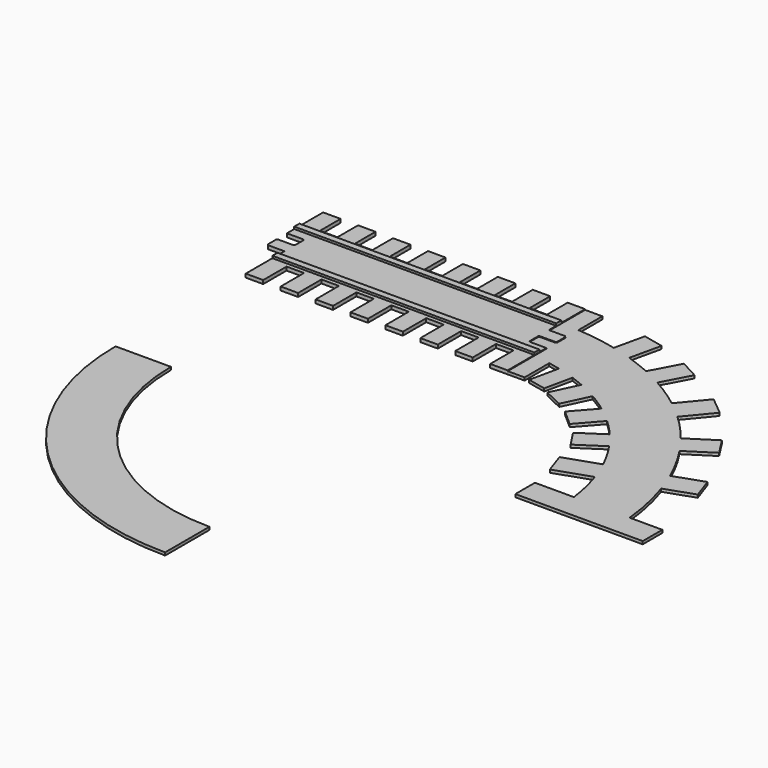
from build123d import *

# Parameters (mm, degrees)
F2_DEPTH = 31.75
F1_W     = 2314.8620128632
F1_H     = 57.1499988437
F1_W_2   = 2314.7030770779
F1_H_2   = 57.15
F3_DEPTH = 50.8
F5_DEPTH = 25.4


with BuildPart() as f2:
    # F0 (on Top) → F2 (new body)
    with BuildSketch(Plane.XY):
        with BuildLine():
            Line((141.605, 0), (0, 0))
            Line((0, 0), (-0.0174862289, 172.1356511116))
            Line((-0.0174862289, 172.1356511116), (-0.0174862289, 400.9649455547))
            Line((-0.0174862289, 400.9649455547), (-154.3224862289, 400.9649455547))
            Line((-154.3224862289, 400.9649455547), (-154.3224862289, 172.1356511116))
            Line((-154.3224862289, 172.1356511116), (-308.6274862289, 172.1356511116))
            Line((-308.6274862289, 172.1356511116), (-308.6274862289, 400.9649455547))
            Line((-308.6274862289, 400.9649455547), (-462.9324862289, 400.9649455547))
            Line((-462.9324862289, 400.9649455547), (-462.9324862289, 172.1356511116))
            Line((-462.9324862289, 172.1356511116), (-617.2374862289, 172.1356511116))
            Line((-617.2374862289, 172.1356511116), (-617.2374862289, 400.9649455547))
            Line((-617.2374862289, 400.9649455547), (-771.5424862289, 400.9649455547))
            Line((-771.5424862289, 400.9649455547), (-771.5424862289, 172.1356511116))
            Line((-771.5424862289, 172.1356511116), (-925.8474862289, 172.1356511116))
            Line((-925.8474862289, 172.1356511116), (-925.8474862289, 400.9649455547))
            Line((-925.8474862289, 400.9649455547), (-1080.1524862289, 400.9649455547))
            Line((-1080.1524862289, 400.9649455547), (-1080.1524862289, 172.1356511116))
            Line((-1080.1524862289, 172.1356511116), (-1234.4574862289, 172.1356511116))
            Line((-1234.4574862289, 172.1356511116), (-1234.4574862289, 400.9649455547))
            Line((-1234.4574862289, 400.9649455547), (-1388.7624862289, 400.9649455547))
            Line((-1388.7624862289, 400.9649455547), (-1388.7624862289, 172.1356511116))
            Line((-1388.7624862289, 172.1356511116), (-1543.0674862289, 172.1356511116))
            Line((-1543.0674862289, 172.1356511116), (-1543.0674862289, 399.8836874962))
            Line((-1543.0674862289, 399.8836874962), (-1697.3724862289, 399.8836874962))
            Line((-1697.3724862289, 399.8836874962), (-1697.3724862289, 172.1356511116))
            Line((-1697.3724862289, 172.1356511116), (-1851.6774862289, 172.1356511116))
            Line((-1851.6774862289, 172.1356511116), (-1851.6774862289, 399.8836874962))
            Line((-1851.6774862289, 399.8836874962), (-2005.9824862289, 399.8836874962))
            Line((-2005.9824862289, 399.8836874962), (-2005.9824862289, 172.1356511116))
            Line((-2005.9824862289, 172.1356511116), (-2160.2874862289, 172.1356511116))
            Line((-2160.2874862289, 172.1356511116), (-2160.2874862289, 399.8836874962))
            Line((-2160.2874862289, 399.8836874962), (-2314.5924862289, 399.8836874962))
            Line((-2314.5924862289, 399.8836874962), (-2314.5924862289, 0))
            Line((-2314.5924862289, 0), (-2172.9874862289, 0))
            ThreePointArc((-2172.9874862289, 0), (-2164.0072301079, -3.7197438789), (-2160.2874862289, -12.7))
            Line((-2160.2874862289, -12.7), (-2160.2874862289, -97.307886156))
            ThreePointArc((-2160.2874862289, -97.307886156), (-2164.0072301079, -106.2881422771), (-2172.9874862289, -110.007886156))
            Line((-2172.9874862289, -110.007886156), (-2301.8924862289, -110.007886156))
            ThreePointArc((-2301.8924862289, -110.007886156), (-2310.87274235, -113.7276300349), (-2314.5924862289, -122.707886156))
            Line((-2314.5924862289, -122.707886156), (-2314.5924862289, -207.315286156))
            ThreePointArc((-2314.5924862289, -207.315286156), (-2310.87274235, -216.2955422771), (-2301.8924862289, -220.015286156))
            Line((-2301.8924862289, -220.015286156), (-2160.2874862289, -220.015286156))
            Line((-2160.2874862289, -220.015286156), (-2160.2874862289, -647.8700637817))
            Line((-2160.2874862289, -647.8700637817), (-2005.9736835098, -647.8700637817))
            Line((-2005.9736835098, -647.8700637817), (-2005.9736835098, -389.8174464703))
            Line((-2005.9736835098, -389.8174464703), (-1851.6686835098, -389.8174464703))
            Line((-1851.6686835098, -389.8174464703), (-1851.6686835098, -647.8700637817))
            Line((-1851.6686835098, -647.8700637817), (-1697.355, -647.8700637817))
            Line((-1697.355, -647.8700637817), (-1697.355, -389.8174464703))
            Line((-1697.355, -389.8174464703), (-1543.05, -389.8174464703))
            Line((-1543.05, -389.8174464703), (-1543.05, -647.8700637817))
            Line((-1543.05, -647.8700637817), (-1388.745, -647.8700637817))
            Line((-1388.745, -647.8700637817), (-1388.745, -389.8174464703))
            Line((-1388.745, -389.8174464703), (-1234.44, -389.8174464703))
            Line((-1234.44, -389.8174464703), (-1234.44, -647.8700637817))
            Line((-1234.44, -647.8700637817), (-1080.135, -647.8700637817))
            Line((-1080.135, -647.8700637817), (-1080.135, -389.8174464703))
            Line((-1080.135, -389.8174464703), (-925.83, -389.8174464703))
            Line((-925.83, -389.8174464703), (-925.83, -647.8700637817))
            Line((-925.83, -647.8700637817), (-771.525, -647.8700637817))
            Line((-771.525, -647.8700637817), (-771.525, -389.8174464703))
            Line((-771.525, -389.8174464703), (-617.22, -389.8174464703))
            Line((-617.22, -389.8174464703), (-617.22, -647.8700637817))
            Line((-617.22, -647.8700637817), (-462.915, -647.8700637817))
            Line((-462.915, -647.8700637817), (-462.915, -389.8174464703))
            Line((-462.915, -389.8174464703), (-308.61, -389.8174464703))
            Line((-308.61, -389.8174464703), (-308.61, -647.8700637817))
            Line((-308.61, -647.8700637817), (-154.305, -647.8700637817))
            Line((-154.305, -647.8700637817), (-154.305, -389.8174464703))
            Line((-154.305, -389.8174464703), (0, -389.8174464703))
            Line((0, -389.8174464703), (0, -647.8700637817))
            Line((0, -647.8700637817), (154.305, -647.8700637817))
            Line((154.305, -647.8700637817), (154.305, -220.015286156))
            Line((154.305, -220.015286156), (12.7, -220.015286156))
            ThreePointArc((12.7, -220.015286156), (3.7197438789, -216.2955422771), (0, -207.315286156))
            Line((0, -207.315286156), (0, -122.707886156))
            ThreePointArc((0, -122.707886156), (3.7197438789, -113.7276300349), (12.7, -110.007886156))
            Line((12.7, -110.007886156), (141.605, -110.007886156))
            ThreePointArc((141.605, -110.007886156), (150.5852561211, -106.2881422771), (154.305, -97.307886156))
            Line((154.305, -97.307886156), (154.305, -12.7))
            ThreePointArc((154.305, -12.7), (150.5852561211, -3.7197438789), (141.605, 0))
        make_face()
    extrude(amount=F2_DEPTH)

    # F1 (on face) → F3 (join)
    with BuildSketch(Plane.XY):
        with Locations((-1157.4310064316, 109.685767442)):
            Rectangle(F1_W, F1_H)
        with Locations((-1003.2348185778, -324.7106937885)):
            Rectangle(F1_W_2, F1_H_2)
    extrude(amount=F3_DEPTH)

    # F4 (on Top) → F5, piece 2 (join)
    with BuildSketch(Plane.XY):
        with BuildLine():
            Line((1700.7607682316, -2048.5756397247), (2190.2823357795, -2048.5756397247))
            ThreePointArc((2190.2823357795, -2048.5756397247), (2187.5977989698, -1940.1663210752), (2179.5507691882, -1832.0227478976))
            ThreePointArc((2179.5507691882, -1832.0227478976), (2141.9886167336, -1591.1682980573), (2077.8949142078, -1355.9794832692))
            ThreePointArc((2077.8949142078, -1355.9794832692), (2044.1455305204, -1261.9335607073), (2006.1421100743, -1169.5247056976))
            ThreePointArc((2006.1421100743, -1169.5247056976), (1922.7656306848, -999.6194729166), (1825.0327772678, -837.5462956023))
            ThreePointArc((1825.0327772678, -837.5462956023), (1771.2311577822, -760.1359259124), (1714.1483645732, -685.1123675174))
            ThreePointArc((1714.1483645732, -685.1123675174), (1608.8949560236, -562.3745325695), (1494.8739516355, -447.7356792199))
            ThreePointArc((1494.8739516355, -447.7356792199), (1418.2964274984, -379.5124431463), (1338.609180119, -314.948755609))
            ThreePointArc((1338.609180119, -314.948755609), (1206.1636246701, -220.3234632047), (1067.0564072904, -135.7956382379))
            ThreePointArc((1067.0564072904, -135.7956382379), (984.4739860367, -92.0103632148), (900.0986208557, -51.7884244308))
            ThreePointArc((900.0986208557, -51.7884244308), (793.5114991459, -7.0869154966), (684.7147031869, 31.9297040961))
            ThreePointArc((684.7147031869, 31.9297040961), (597.0459627706, 58.7622137688), (508.331091083, 81.9022907561))
            ThreePointArc((508.331091083, 81.9022907561), (331.2984768473, 116.5058898409), (152.0188293572, 136.4248147256))
            ThreePointArc((152.0188293572, 136.4248147256), (76.05528047, 140.3858274419), (0, 141.7066960547))
            Line((0, 141.7066960547), (0, 0))
            Line((0, 0), (142.2644512892, 0))
            ThreePointArc((142.2644512892, 0), (151.2447074102, -3.7197438789), (154.9644512892, -12.7))
            Line((154.9644512892, -12.7), (154.9644512892, -96.4580241919))
            ThreePointArc((154.9644512892, -96.4580241919), (151.2447074102, -105.4382803129), (142.2644512892, -109.1580241919))
            Line((142.2644512892, -109.1580241919), (12.7, -109.1580241919))
            ThreePointArc((12.7, -109.1580241919), (3.7197438789, -112.8777680708), (0, -121.8580241919))
            Line((0, -121.8580241919), (0, -207.9156849861))
            ThreePointArc((0, -207.9156849861), (3.7197438789, -216.8959411072), (12.7, -220.6156849861))
            Line((12.7, -220.6156849861), (153.5782366991, -220.6156849861))
            Line((153.5782366991, -220.6156849861), (153.5782366991, -354.7631011101))
            ThreePointArc((153.5782366991, -354.7631011101), (228.837059494, -363.2801786979), (303.642064333, -375.139448075))
            ThreePointArc((303.642064333, -375.139448075), (355.246043117, -385.329584685), (406.5102229371, -397.1106448177))
            ThreePointArc((406.5102229371, -397.1106448177), (486.0256206806, -418.7393636535), (564.4000478194, -444.1942085254))
            ThreePointArc((564.4000478194, -444.1942085254), (622.0497465353, -465.6538780476), (678.8856964144, -489.1842834708))
            ThreePointArc((678.8856964144, -489.1842834708), (763.7797724893, -528.961330141), (846.3530795876, -573.3557729156))
            ThreePointArc((846.3530795876, -573.3557729156), (929.5254887854, -624.2970305847), (1009.6410285995, -679.9222197078))
            ThreePointArc((1009.6410285995, -679.9222197078), (1084.0534570613, -738.0737156556), (1155.1233890557, -800.265923824))
            ThreePointArc((1155.1233890557, -800.265923824), (1226.6235618884, -870.4492338685), (1293.8670565925, -944.7209252717))
            ThreePointArc((1293.8670565925, -944.7209252717), (1349.9219318783, -1014.0235779175), (1402.2690057755, -1086.1678123474))
            ThreePointArc((1402.2690057755, -1086.1678123474), (1475.1870023604, -1202.1652789525), (1538.5312619305, -1323.6558187665))
            ThreePointArc((1538.5312619305, -1323.6558187665), (1578.0045248397, -1414.155502638), (1612.1597420575, -1506.7932508962))
            ThreePointArc((1612.1597420575, -1506.7932508962), (1657.5348851102, -1667.5700027609), (1686.9179102129, -1832.0227478976))
            ThreePointArc((1686.9179102129, -1832.0227478976), (1697.2965256066, -1940.0781977309), (1700.7607682316, -2048.5756397247))
        make_face()
        with BuildLine():
            Line((568.7266337623, 351.0071734775), (508.331091083, 81.9022907561))
            ThreePointArc((508.331091083, 81.9022907561), (597.0459627706, 58.7622137688), (684.7147031869, 31.9297040961))
            Line((684.7147031869, 31.9297040961), (747.3295376382, 310.9231021867))
            Line((747.3295376382, 310.9231021867), (568.7266337623, 351.0071734775))
        make_face()
        with BuildLine():
            Line((0, 400.9472429752), (0, 141.7066960547))
            ThreePointArc((0, 141.7066960547), (76.05528047, 140.3858274419), (152.0188293572, 136.4248147256))
            Line((152.0188293572, 136.4248147256), (152.0188293572, 400.9472429752))
            Line((152.0188293572, 400.9472429752), (0, 400.9472429752))
        make_face()
        with BuildLine():
            Line((1034.840464592, 199.4515806437), (900.0986208557, -51.7884244308))
            ThreePointArc((900.0986208557, -51.7884244308), (984.4739860367, -92.0103632148), (1067.0564072904, -135.7956382379))
            Line((1067.0564072904, -135.7956382379), (1199.4935155064, 111.1469507722))
            Line((1199.4935155064, 111.1469507722), (1034.840464592, 199.4515806437))
        make_face()
        with BuildLine():
            ThreePointArc((303.642064333, -375.139448075), (228.837059494, -363.2801786979), (153.5782366991, -354.7631011101))
            Line((153.5782366991, -354.7631011101), (153.5782366991, -647.3406553268))
            Line((153.5782366991, -647.3406553268), (303.642064333, -647.3406553268))
            Line((303.642064333, -647.3406553268), (303.642064333, -375.139448075))
        make_face()
        with BuildLine():
            ThreePointArc((564.4000478194, -444.1942085254), (486.0256206806, -418.7393636535), (406.5102229371, -397.1106448177))
            Line((406.5102229371, -397.1106448177), (350.8396875228, -655.5128253273))
            Line((350.8396875228, -655.5128253273), (511.4199292036, -690.1084623057))
            Line((511.4199292036, -690.1084623057), (564.4000478194, -444.1942085254))
        make_face()
        with BuildLine():
            ThreePointArc((846.3530795876, -573.3557729156), (763.7797724893, -528.961330141), (678.8856964144, -489.1842834708))
            Line((678.8856964144, -489.1842834708), (566.5445327759, -725.2546548843))
            Line((566.5445327759, -725.2546548843), (735.7490831626, -805.7757129466))
            Line((735.7490831626, -805.7757129466), (846.3530795876, -573.3557729156))
        make_face()
        with BuildLine():
            Line((981.8098078719, -996.6349115516), (1155.1233890557, -800.265923824))
            ThreePointArc((1155.1233890557, -800.265923824), (1084.0534570613, -738.0737156556), (1009.6410285995, -679.9222197078))
            Line((1009.6410285995, -679.9222197078), (840.3251171112, -871.761739254))
            Line((840.3251171112, -871.761739254), (981.8098078719, -996.6349115516))
        make_face()
        with BuildLine():
            Line((1179.4218117302, -1233.2547198989), (1402.2690057755, -1086.1678123474))
            ThreePointArc((1402.2690057755, -1086.1678123474), (1349.9219318783, -1014.0235779175), (1293.8670565925, -944.7209252717))
            Line((1293.8670565925, -944.7209252717), (1081.4974308014, -1084.8922729492))
            Line((1081.4974308014, -1084.8922729492), (1179.4218117302, -1233.2547198989))
        make_face()
        with BuildLine():
            Line((1299.8209608257, -1613.821405452), (1612.1597420575, -1506.7932508962))
            ThreePointArc((1612.1597420575, -1506.7932508962), (1578.0045248397, -1414.155502638), (1538.5312619305, -1323.6558187665))
            Line((1538.5312619305, -1323.6558187665), (1235.9232377785, -1427.3495651883))
            Line((1235.9232377785, -1427.3495651883), (1299.8209608257, -1613.821405452))
        make_face()
        with BuildLine():
            Line((1342.8715467453, -2048.5756397247), (1700.7607682316, -2048.5756397247))
            ThreePointArc((1700.7607682316, -2048.5756397247), (1697.2965256066, -1940.0781977309), (1686.9179102129, -1832.0227478976))
            Line((1686.9179102129, -1832.0227478976), (1342.8715467453, -1832.0227478976))
            Line((1342.8715467453, -1832.0227478976), (1342.8715467453, -2048.5756397247))
        make_face()
        with BuildLine():
            ThreePointArc((2179.5507691882, -1832.0227478976), (2187.5977989698, -1940.1663210752), (2190.2823357795, -2048.5756397247))
            Line((2190.2823357795, -2048.5756397247), (2468.6176776886, -2048.5756397247))
            Line((2468.6176776886, -2048.5756397247), (2468.6176776886, -1832.0227478976))
            Line((2468.6176776886, -1832.0227478976), (2179.5507691882, -1832.0227478976))
        make_face()
        with BuildLine():
            ThreePointArc((2006.1421100743, -1169.5247056976), (2044.1455305204, -1261.9335607073), (2077.8949142078, -1355.9794832692))
            Line((2077.8949142078, -1355.9794832692), (2331.0382209914, -1267.9297149282))
            Line((2331.0382209914, -1267.9297149282), (2265.439860707, -1079.3342631192))
            Line((2265.439860707, -1079.3342631192), (2006.1421100743, -1169.5247056976))
        make_face()
        with BuildLine():
            ThreePointArc((1714.1483645732, -685.1123675174), (1771.2311577822, -760.1359259124), (1825.0327772678, -837.5462956023))
            Line((1825.0327772678, -837.5462956023), (2056.0532593905, -689.2037746706))
            Line((2056.0532593905, -689.2037746706), (1954.3762543221, -530.857599992))
            Line((1954.3762543221, -530.857599992), (1714.1483645732, -685.1123675174))
        make_face()
        with BuildLine():
            ThreePointArc((1338.609180119, -314.948755609), (1418.2964274984, -379.5124431463), (1494.8739516355, -447.7356792199))
            Line((1494.8739516355, -447.7356792199), (1684.904351727, -218.4660425476))
            Line((1684.904351727, -218.4660425475), (1527.0345959314, -87.6155152311))
            Line((1527.0345959314, -87.6155152311), (1338.609180119, -314.948755609))
        make_face()
    extrude(amount=F5_DEPTH)


with BuildPart() as f5:
    # F4 (on Top) → F5 (new body)
    with BuildSketch(Plane.XY):
        with BuildLine():
            ThreePointArc((-2190.2823357795, -2048.5756397247), (-1548.7634923427, -3597.3391320675), (0, -4238.8579755042))
            Line((0, -4238.8579755042), (0, -3749.3364079563))
            ThreePointArc((0, -3749.3364079563), (-1202.6194723926, -3251.1951121173), (-1700.7607682316, -2048.5756397247))
            Line((-1700.7607682316, -2048.5756397247), (-2190.2823357795, -2048.5756397247))
        make_face()
    extrude(amount=F5_DEPTH)


solid = Compound([f2.part, f5.part])
